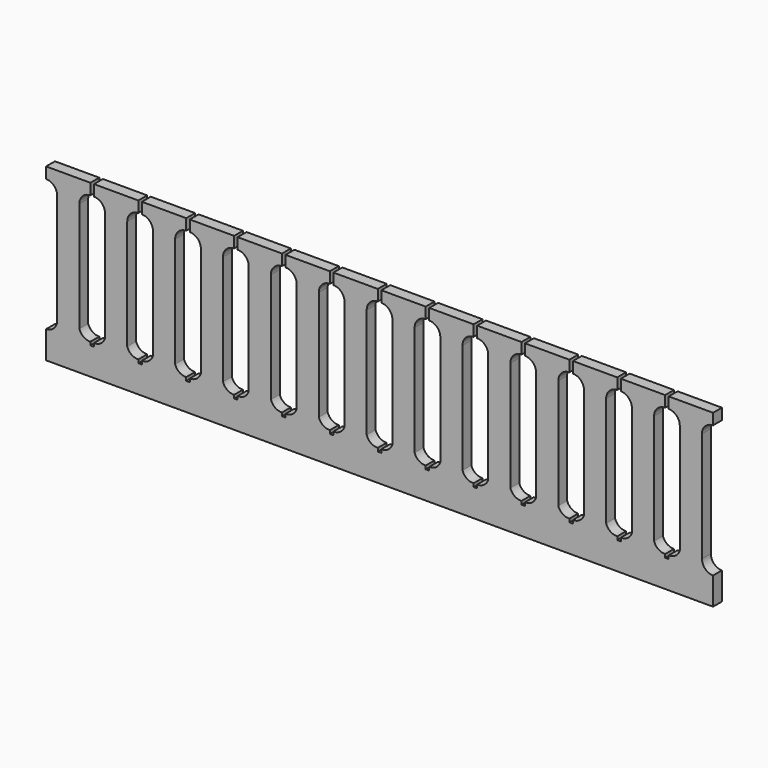
from build123d import *

# Parameters (mm, degrees)
F1_DEPTH = 3.175


with BuildPart() as f1:
    # F0 (on Front) → F1 (new body)
    with BuildSketch(Plane.XZ):
        with BuildLine():
            Line((0, 7.874), (0, 0))
            Line((0, 0), (191.008, 0))
            Line((191.008, 0), (191.008, 7.874))
            ThreePointArc((191.008, 7.874), (188.762936, 8.803936), (187.833, 11.049))
            Line((187.833, 11.049), (187.833, 42.545))
            ThreePointArc((187.833, 42.545), (188.762936, 44.790064), (191.008, 45.72))
            Line((191.008, 45.72), (191.008, 48.895))
            Line((191.008, 48.895), (178.308, 48.895))
            Line((178.308, 48.895), (178.308, 45.72))
            ThreePointArc((178.308, 45.72), (180.553064, 44.790064), (181.483, 42.545))
            Line((181.483, 42.545), (181.483, 11.049))
            ThreePointArc((181.483, 11.049), (180.274371, 9.396051), (178.308, 8.824727))
            Line((178.308, 8.824727), (178.308, 7.874))
            Line((178.308, 7.874), (177.292, 7.874))
            Line((177.292, 7.874), (177.292, 8.824727))
            ThreePointArc((177.292, 8.824727), (175.325629, 9.396051), (174.117, 11.049))
            Line((174.117, 11.049), (174.117, 42.545))
            ThreePointArc((174.117, 42.545), (175.046936, 44.790064), (177.292, 45.72))
            Line((177.292, 45.72), (177.292, 48.895))
            Line((177.292, 48.895), (164.592, 48.895))
            Line((164.592, 48.895), (164.592, 45.72))
            ThreePointArc((164.592, 45.72), (166.837064, 44.790064), (167.767, 42.545))
            Line((167.767, 42.545), (167.767, 11.049))
            ThreePointArc((167.767, 11.049), (166.558371, 9.396051), (164.592, 8.824727))
            Line((164.592, 8.824727), (164.592, 7.874))
            Line((164.592, 7.874), (163.576, 7.874))
            Line((163.576, 7.874), (163.576, 8.824727))
            ThreePointArc((163.576, 8.824727), (161.609629, 9.396051), (160.401, 11.049))
            Line((160.401, 11.049), (160.401, 42.545))
            ThreePointArc((160.401, 42.545), (161.330936, 44.790064), (163.576, 45.72))
            Line((163.576, 45.72), (163.576, 48.895))
            Line((163.576, 48.895), (150.876, 48.895))
            Line((150.876, 48.895), (150.876, 45.72))
            ThreePointArc((150.876, 45.72), (153.121064, 44.790064), (154.051, 42.545))
            Line((154.051, 42.545), (154.051, 11.049))
            ThreePointArc((154.051, 11.049), (152.842371, 9.396051), (150.876, 8.824727))
            Line((150.876, 8.824727), (150.876, 7.874))
            Line((150.876, 7.874), (149.86, 7.874))
            Line((149.86, 7.874), (149.86, 8.824727))
            ThreePointArc((149.86, 8.824727), (147.893629, 9.396051), (146.685, 11.049))
            Line((146.685, 11.049), (146.685, 42.545))
            ThreePointArc((146.685, 42.545), (147.614936, 44.790064), (149.86, 45.72))
            Line((149.86, 45.72), (149.86, 48.895))
            Line((149.86, 48.895), (137.16, 48.895))
            Line((137.16, 48.895), (137.16, 45.72))
            ThreePointArc((137.16, 45.72), (139.405064, 44.790064), (140.335, 42.545))
            Line((140.335, 42.545), (140.335, 11.049))
            ThreePointArc((140.335, 11.049), (139.126371, 9.396051), (137.16, 8.824727))
            Line((137.16, 8.824727), (137.16, 7.874))
            Line((137.16, 7.874), (136.144, 7.874))
            Line((136.144, 7.874), (136.144, 8.824727))
            ThreePointArc((136.144, 8.824727), (134.177629, 9.396051), (132.969, 11.049))
            Line((132.969, 11.049), (132.969, 42.545))
            ThreePointArc((132.969, 42.545), (133.898936, 44.790064), (136.144, 45.72))
            Line((136.144, 45.72), (136.144, 48.895))
            Line((136.144, 48.895), (123.444, 48.895))
            Line((123.444, 48.895), (123.444, 45.72))
            ThreePointArc((123.444, 45.72), (125.689064, 44.790064), (126.619, 42.545))
            Line((126.619, 42.545), (126.619, 11.049))
            ThreePointArc((126.619, 11.049), (125.410371, 9.396051), (123.444, 8.824727))
            Line((123.444, 8.824727), (123.444, 7.874))
            Line((123.444, 7.874), (122.428, 7.874))
            Line((122.428, 7.874), (122.428, 8.824727))
            ThreePointArc((122.428, 8.824727), (120.461629, 9.396051), (119.253, 11.049))
            Line((119.253, 11.049), (119.253, 42.545))
            ThreePointArc((119.253, 42.545), (120.182936, 44.790064), (122.428, 45.72))
            Line((122.428, 45.72), (122.428, 48.895))
            Line((122.428, 48.895), (109.728, 48.895))
            Line((109.728, 48.895), (109.728, 45.72))
            ThreePointArc((109.728, 45.72), (111.973064, 44.790064), (112.903, 42.545))
            Line((112.903, 42.545), (112.903, 11.049))
            ThreePointArc((112.903, 11.049), (111.694371, 9.396051), (109.728, 8.824727))
            Line((109.728, 8.824727), (109.728, 7.874))
            Line((109.728, 7.874), (108.712, 7.874))
            Line((108.712, 7.874), (108.712, 8.824727))
            ThreePointArc((108.712, 8.824727), (106.745629, 9.396051), (105.537, 11.049))
            Line((105.537, 11.049), (105.537, 42.545))
            ThreePointArc((105.537, 42.545), (106.466936, 44.790064), (108.712, 45.72))
            Line((108.712, 45.72), (108.712, 48.895))
            Line((108.712, 48.895), (96.012, 48.895))
            Line((96.012, 48.895), (96.012, 45.72))
            ThreePointArc((96.012, 45.72), (98.257064, 44.790064), (99.187, 42.545))
            Line((99.187, 42.545), (99.187, 11.049))
            ThreePointArc((99.187, 11.049), (97.978371, 9.396051), (96.012, 8.824727))
            Line((96.012, 8.824727), (96.012, 7.874))
            Line((96.012, 7.874), (94.996, 7.874))
            Line((94.996, 7.874), (94.996, 8.824727))
            ThreePointArc((94.996, 8.824727), (93.029629, 9.396051), (91.821, 11.049))
            Line((91.821, 11.049), (91.821, 42.545))
            ThreePointArc((91.821, 42.545), (92.750936, 44.790064), (94.996, 45.72))
            Line((94.996, 45.72), (94.996, 48.895))
            Line((94.996, 48.895), (82.296, 48.895))
            Line((82.296, 48.895), (82.296, 45.72))
            ThreePointArc((82.296, 45.72), (84.541064, 44.790064), (85.471, 42.545))
            Line((85.471, 42.545), (85.471, 11.049))
            ThreePointArc((85.471, 11.049), (84.262371, 9.396051), (82.296, 8.824727))
            Line((82.296, 8.824727), (82.296, 7.874))
            Line((82.296, 7.874), (81.28, 7.874))
            Line((81.28, 7.874), (81.28, 8.824727))
            ThreePointArc((81.28, 8.824727), (79.313629, 9.396051), (78.105, 11.049))
            Line((78.105, 11.049), (78.105, 42.545))
            ThreePointArc((78.105, 42.545), (79.034936, 44.790064), (81.28, 45.72))
            Line((81.28, 45.72), (81.28, 48.895))
            Line((81.28, 48.895), (68.58, 48.895))
            Line((68.58, 48.895), (68.58, 45.72))
            ThreePointArc((68.58, 45.72), (70.825064, 44.790064), (71.755, 42.545))
            Line((71.755, 42.545), (71.755, 11.049))
            ThreePointArc((71.755, 11.049), (70.546371, 9.396051), (68.58, 8.824727))
            Line((68.58, 8.824727), (68.58, 7.874))
            Line((68.58, 7.874), (67.564, 7.874))
            Line((67.564, 7.874), (67.564, 8.824727))
            ThreePointArc((67.564, 8.824727), (65.597629, 9.396051), (64.389, 11.049))
            Line((64.389, 11.049), (64.389, 42.545))
            ThreePointArc((64.389, 42.545), (65.318936, 44.790064), (67.564, 45.72))
            Line((67.564, 45.72), (67.564, 48.895))
            Line((67.564, 48.895), (54.864, 48.895))
            Line((54.864, 48.895), (54.864, 45.72))
            ThreePointArc((54.864, 45.72), (57.109064, 44.790064), (58.039, 42.545))
            Line((58.039, 42.545), (58.039, 11.049))
            ThreePointArc((58.039, 11.049), (56.830371, 9.396051), (54.864, 8.824727))
            Line((54.864, 8.824727), (54.864, 7.874))
            Line((54.864, 7.874), (53.848, 7.874))
            Line((53.848, 7.874), (53.848, 8.824727))
            ThreePointArc((53.848, 8.824727), (51.881629, 9.396051), (50.673, 11.049))
            Line((50.673, 11.049), (50.673, 42.545))
            ThreePointArc((50.673, 42.545), (51.602936, 44.790064), (53.848, 45.72))
            Line((53.848, 45.72), (53.848, 48.895))
            Line((53.848, 48.895), (41.148, 48.895))
            Line((41.148, 48.895), (41.148, 45.72))
            ThreePointArc((41.148, 45.72), (43.393064, 44.790064), (44.323, 42.545))
            Line((44.323, 42.545), (44.323, 11.049))
            ThreePointArc((44.323, 11.049), (43.114371, 9.396051), (41.148, 8.824727))
            Line((41.148, 8.824727), (41.148, 7.874))
            Line((41.148, 7.874), (40.132, 7.874))
            Line((40.132, 7.874), (40.132, 8.824727))
            ThreePointArc((40.132, 8.824727), (38.165629, 9.396051), (36.957, 11.049))
            Line((36.957, 11.049), (36.957, 42.545))
            ThreePointArc((36.957, 42.545), (37.886936, 44.790064), (40.132, 45.72))
            Line((40.132, 45.72), (40.132, 48.895))
            Line((40.132, 48.895), (27.432, 48.895))
            Line((27.432, 48.895), (27.432, 45.72))
            ThreePointArc((27.432, 45.72), (29.677064, 44.790064), (30.607, 42.545))
            Line((30.607, 42.545), (30.607, 11.049))
            ThreePointArc((30.607, 11.049), (29.398371, 9.396051), (27.432, 8.824727))
            Line((27.432, 8.824727), (27.432, 7.874))
            Line((27.432, 7.874), (26.416, 7.874))
            Line((26.416, 7.874), (26.416, 8.824727))
            ThreePointArc((26.416, 8.824727), (24.449629, 9.396051), (23.241, 11.049))
            Line((23.241, 11.049), (23.241, 42.545))
            ThreePointArc((23.241, 42.545), (24.170936, 44.790064), (26.416, 45.72))
            Line((26.416, 45.72), (26.416, 48.895))
            Line((26.416, 48.895), (13.716, 48.895))
            Line((13.716, 48.895), (13.716, 45.72))
            ThreePointArc((13.716, 45.72), (15.961064, 44.790064), (16.891, 42.545))
            Line((16.891, 42.545), (16.891, 11.049))
            ThreePointArc((16.891, 11.049), (15.682371, 9.396051), (13.716, 8.824727))
            Line((13.716, 8.824727), (13.716, 7.874))
            Line((13.716, 7.874), (12.7, 7.874))
            Line((12.7, 7.874), (12.7, 8.824727))
            ThreePointArc((12.7, 8.824727), (10.733629, 9.396051), (9.525, 11.049))
            Line((9.525, 11.049), (9.525, 42.545))
            ThreePointArc((9.525, 42.545), (10.454936, 44.790064), (12.7, 45.72))
            Line((12.7, 45.72), (12.7, 48.895))
            Line((12.7, 48.895), (0, 48.895))
            Line((0, 48.895), (0, 45.72))
            ThreePointArc((0, 45.72), (2.245064, 44.790064), (3.175, 42.545))
            Line((3.175, 42.545), (3.175, 11.049))
            ThreePointArc((3.175, 11.049), (2.245064, 8.803936), (0, 7.874))
        make_face()
    extrude(amount=-F1_DEPTH)


solid = f1.part
